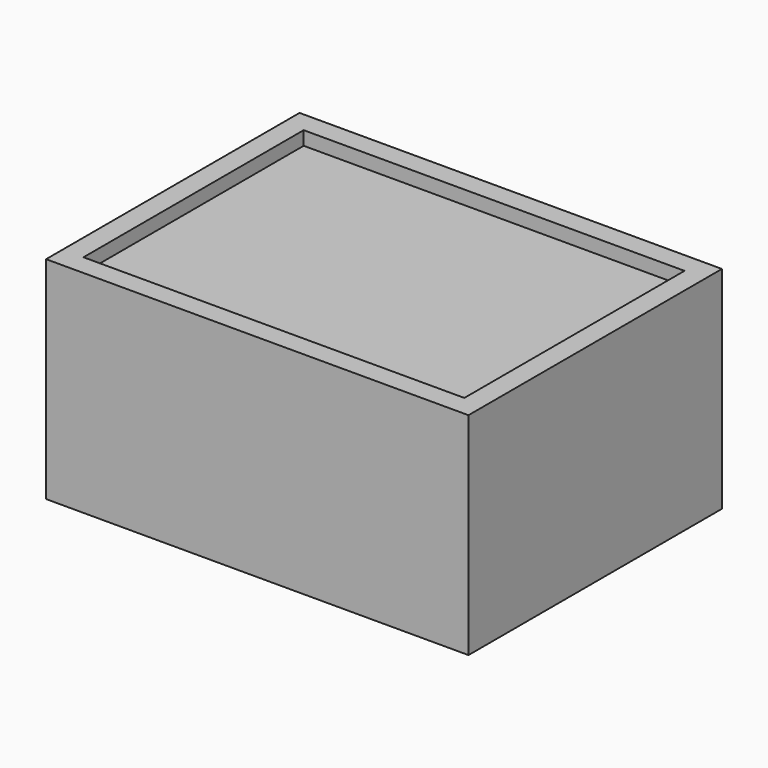
from build123d import *

# Parameters (mm, degrees)
F0_W     = 203.2
F0_H     = 101.6
F1_DEPTH = 76.2
F2_T     = -10
F3_W     = 132.4
F3_H     = 5.0765872002
F4_DEPTH = 183.20004


with BuildPart() as f1:
    # F0 (on Front) → F1 (new body, symmetric)
    with BuildSketch(Plane.XZ):
        Rectangle(F0_W, F0_H)
    extrude(amount=F1_DEPTH, both=True)

    # F2
    f2_openings = [f1.faces().sort_by_distance(p)[0] for p in [
        (0, 0, 50.8),
    ]]
    offset(amount=F2_T, openings=f2_openings)


with BuildPart() as f4:
    # F3 (on face) → F4 (new body)
    with BuildSketch(Plane.YZ.offset(-91.6)):
        with Locations((0, 41.6471213102)):
            Rectangle(F3_W, F3_H)
    extrude(amount=F4_DEPTH)


solid = Compound([f1.part, f4.part])
